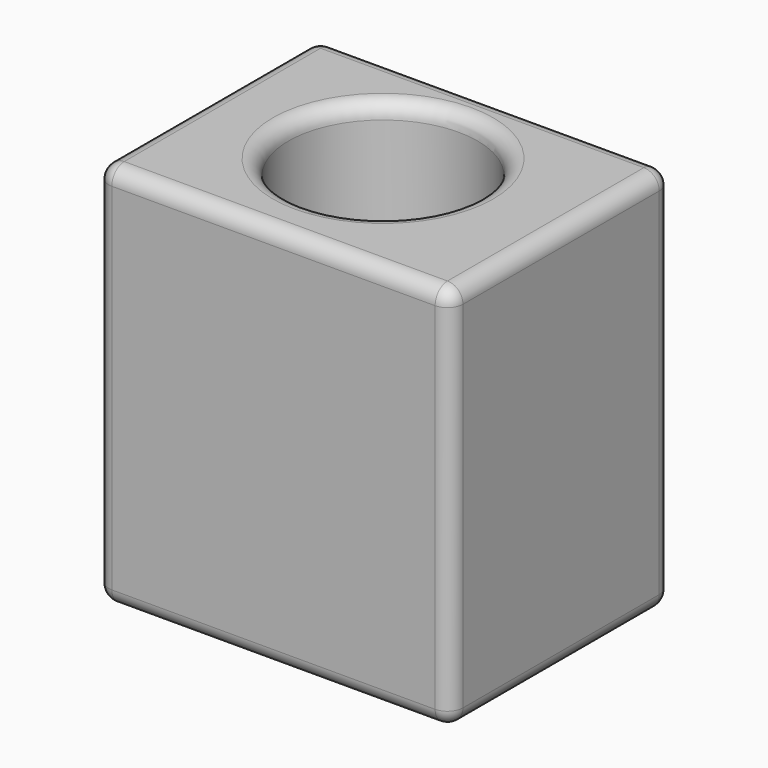
from build123d import *

# Parameters (mm, degrees)
F0_W     = 116.467763
F0_H     = 90.848792
F1_DEPTH = 127
F2_R     = 31.135963
F3_DEPTH = 127
F4_R     = 5.08


with BuildPart() as f1:
    # F0 (on Top) → F1 (new body)
    with BuildSketch(Plane.XY):
        with Locations((2.364828, -2.561895)):
            Rectangle(F0_W, F0_H)
    extrude(amount=F1_DEPTH)

    # F2 (on face) → F3 (cut)
    with BuildSketch(Plane.XY.offset(127)):
        Circle(F2_R)
    extrude(amount=-F3_DEPTH, mode=Mode.SUBTRACT)

    # F4
    f4_edges = [f1.edges().sort_by_distance(p)[0] for p in [
        (2.364827, 42.862501, 127),
        (-55.869054, -2.561895, 127),
        (2.364827, -47.986291, 127),
        (60.598709, -2.561895, 127),
        (-31.135963, 0, 127),
        (-55.869054, 42.862501, 63.5),
        (-55.869054, -2.561895, 0),
        (-55.869054, -47.986291, 63.5),
        (2.364827, 42.862501, 0),
        (60.598709, 42.862501, 63.5),
        (31.135963, 0, 63.5),
        (-31.135963, 0, 0),
        (60.598709, -2.561895, 0),
        (2.364827, -47.986291, 0),
        (60.598709, -47.986291, 63.5),
    ]]
    fillet(f4_edges, radius=F4_R)


solid = f1.part
